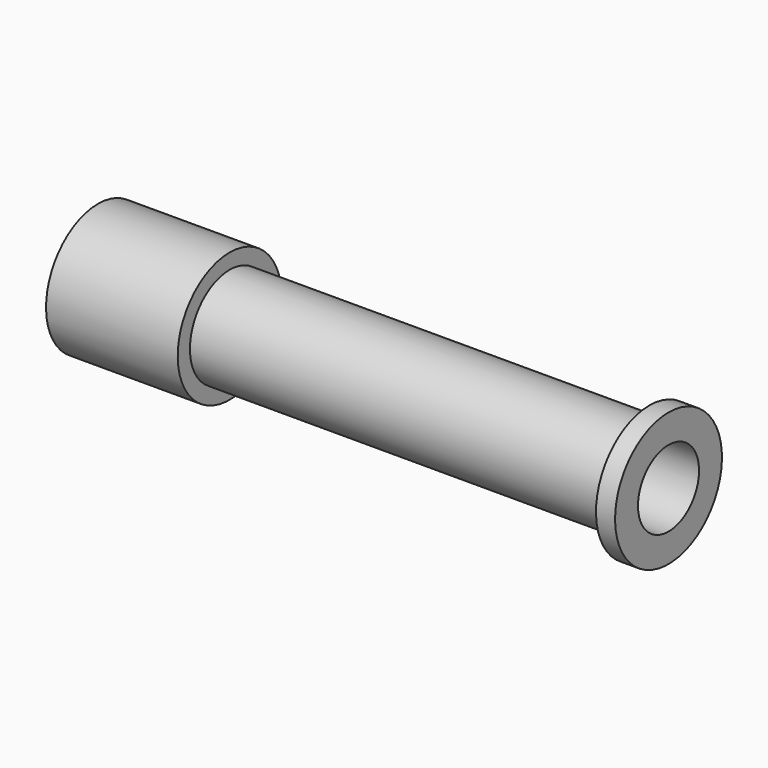
from build123d import *


with BuildPart() as f1:
    # F0 (on Front) → F1 (revolve)
    with BuildSketch(Plane.XZ):
        Polygon((-11.17308, 3.4), (-11.17308, 0), (17.72692, 0), (17.72692, 2.6), (-4.27308, 2.6), (-4.27308, 3.4), align=None)
        Polygon((17.72692, 2.6), (17.72692, 0), (18.72692, 0), (18.72692, 3.5), (17.72692, 3.5), align=None)
    revolve(axis=Axis((2.68319, 0, 0), (1, 0, 0)))

    # F2 (on Front) → F3 (revolve, cut)
    with BuildSketch(Plane.XZ):
        Polygon((-12.316774, 2.9), (-12.316774, 0), (20.493909, 0), (20.493909, 2), (-4.616774, 2), (-4.616774, 2.9), align=None)
    revolve(axis=Axis((3.41996, 0, 0), (1, 0, 0)), mode=Mode.SUBTRACT)


solid = f1.part
